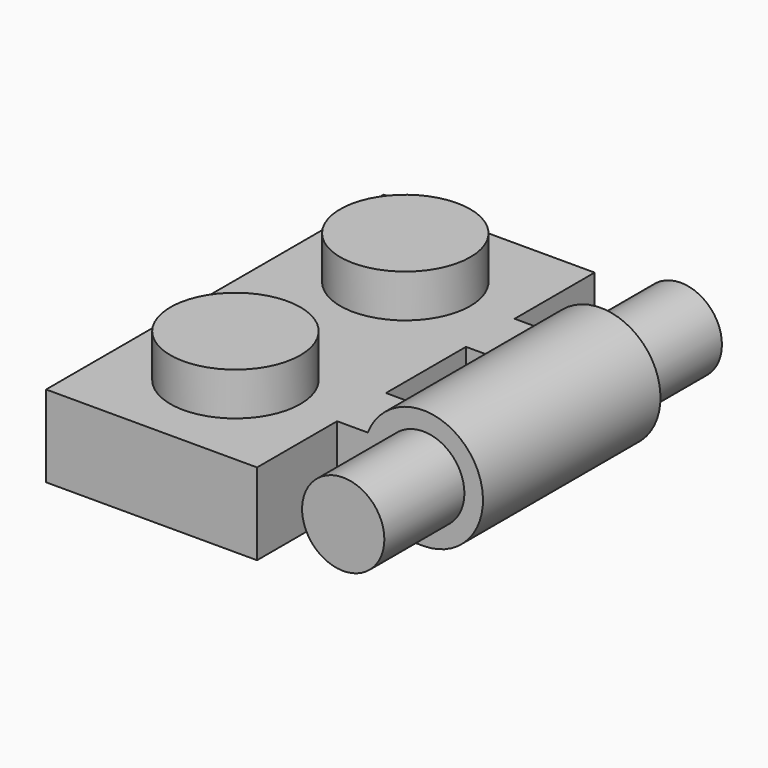
from build123d import *

# Parameters (mm, degrees)
F0_W      = 7.95
F0_H      = 15.9
F0_R      = 2.45
F1_DEPTH  = 3.08
F2_DEPTH  = 4.7
F3_R      = 1.55
F4_DEPTH  = 15.9
F5_W      = 1.155221
F5_H      = 3.77
F6_DEPTH  = 25
F7_DEPTH  = 15.9
F8_R      = 1.55
F9_DEPTH  = 3.77
F10_R     = 1.55
F11_DEPTH = 3.77


with BuildPart() as f1:
    # F0 (on Top) → F1 (new body)
    with BuildSketch(Plane.XY):
        with Locations((3.975, -7.95)):
            Rectangle(F0_W, F0_H)
        with Locations((3.975, -11.95)):
            Circle(F0_R, mode=Mode.SUBTRACT)
        with Locations((3.975, -3.95)):
            Circle(F0_R, mode=Mode.SUBTRACT)
    extrude(amount=F1_DEPTH)

    # F0 (on Top) → F2 (join)
    with BuildSketch(Plane.XY):
        with Locations((3.975, -11.95)):
            Circle(F0_R)
        with Locations((3.975, -3.95)):
            Circle(F0_R)
    extrude(amount=F2_DEPTH)

    # F3 (on face) → F4 (join)
    with BuildSketch(Plane.XZ.offset(15.9)):
        with BuildLine():
            Line((7.95, 0), (11.196537, 0))
            ThreePointArc((11.196537, 0), (13.057988, 3.513922), (9.105221, 3.08))
            Line((9.105221, 3.08), (7.95, 3.08))
            Line((7.95, 3.08), (7.95, 0))
        make_face()
        with Locations((11.196537, 2.25)):
            Circle(F3_R, mode=Mode.SUBTRACT)
    extrude(amount=-F4_DEPTH)

    # F5 (on face) → F6 (cut)
    with BuildSketch(Plane.XY.offset(3.08)):
        with Locations((8.52761, -14.015)):
            Rectangle(F5_W, F5_H)
        with Locations((8.52761, -7.945)):
            Rectangle(F5_W, F5_H)
        with Locations((8.52761, -1.885)):
            Rectangle(F5_W, F5_H)
    extrude(amount=-F6_DEPTH, mode=Mode.SUBTRACT)

    # F8 (on face) → F9 (cut)
    with BuildSketch(Plane.XZ.offset(15.9)):
        with BuildLine():
            Line((7.950221, 0), (11.196537, 0))
            ThreePointArc((11.196537, 0), (13.057988, 3.513922), (9.105221, 3.08))
            Line((9.105221, 3.08), (7.950221, 3.08))
            Line((7.950221, 3.08), (7.950221, 0))
        make_face()
        with Locations((11.196537, 2.25)):
            Circle(F8_R, mode=Mode.SUBTRACT)
        with BuildLine():
            Line((7.950221, 0), (11.196537, 0))
            ThreePointArc((11.196537, 0), (13.057988, 3.513922), (9.105221, 3.08))
            Line((9.105221, 3.08), (7.950221, 3.08))
            Line((7.950221, 3.08), (7.950221, 0))
        make_face()
        with Locations((11.196537, 2.25)):
            Circle(F8_R, mode=Mode.SUBTRACT)
    extrude(amount=-F9_DEPTH, mode=Mode.SUBTRACT)

    # F10 (on face) → F11 (cut)
    with BuildSketch(Plane(origin=(0, 0, 0), x_dir=(-1, 0, 0), z_dir=(0, 1, 0))):
        with BuildLine():
            Line((-7.955221, 3.08), (-9.105221, 3.08))
            ThreePointArc((-9.105221, 3.08), (-13.057988, 3.513922), (-11.196537, 0))
            Line((-11.196537, 0), (-7.955221, 0))
            Line((-7.955221, 0), (-7.955221, 3.08))
        make_face()
        with Locations((-11.196537, 2.25)):
            Circle(F10_R, mode=Mode.SUBTRACT)
    extrude(amount=-F11_DEPTH, mode=Mode.SUBTRACT)


with BuildPart() as f7:
    # F3 (on face) → F7 (new body)
    with BuildSketch(Plane.XZ.offset(15.9)):
        with Locations((11.196537, 2.25)):
            Circle(F3_R)
    extrude(amount=-F7_DEPTH)


solid = Compound([f1.part, f7.part])
